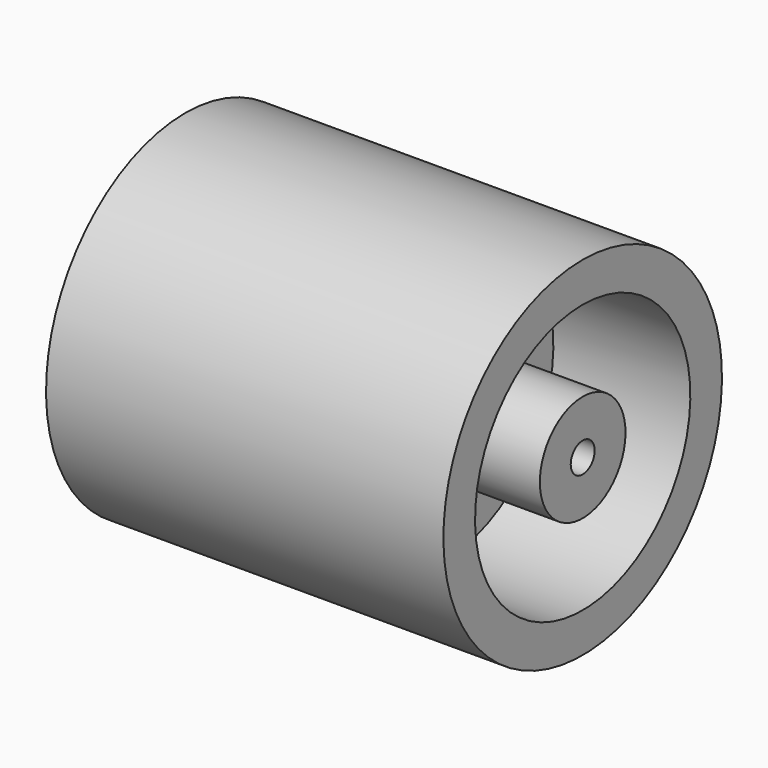
from build123d import *


with BuildPart() as f1:
    # F0 (on Front) → F1 (revolve)
    with BuildSketch(Plane.XZ):
        Polygon((63.060932, 54.987911), (0.304641, 54.987911), (-62.451649, 54.987911), (-62.451649, 42.497583), (-19.192459, 42.497583), (-19.192459, 16.907642), (-62.451649, 16.907642), (-62.451649, 4.721954), (0, 4.721954), (0.609282, 4.721954), (63.060932, 4.721954), (63.060932, 16.907642), (19.801741, 16.907642), (19.801741, 42.497583), (63.060932, 42.497583), align=None)
    revolve(axis=Axis((4e-06, 0, 0), (1, 0, 0)))


solid = f1.part
